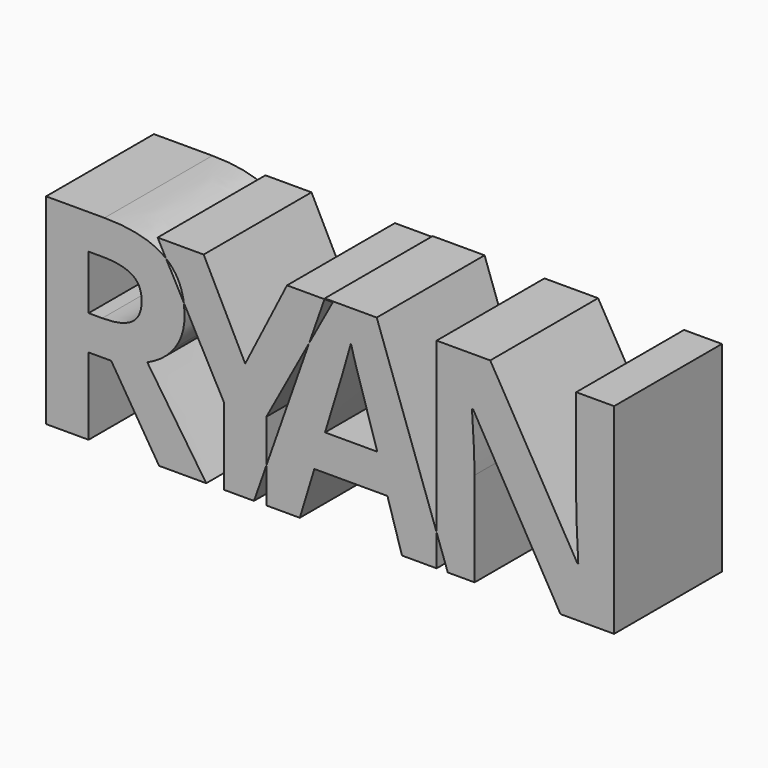
from build123d import *

# Parameters (mm, degrees)
F1_DEPTH = 20


with BuildPart() as f1:
    # F0 (on Front) → F1 (new body)
    with BuildSketch(Plane.XZ):
        with BuildLine():
            Line((-15.6930900564, 11.3737013649), (-15.6930900564, 3.4483e-06))
            Line((-15.6930900564, 3.4483e-06), (-11.2584561557, 3.4483e-06))
            Line((-11.2584561557, 3.4483e-06), (-9.430069223, 5.2006477426))
            Line((-9.430069223, 5.2006477426), (-9.430069223, 11.5755242816))
            Line((-9.430069223, 11.5755242816), (-3.0765425218, 23.2725513418))
            Line((-3.0765425218, 23.2725513418), (-0.8006424637, 29.7460971983))
            Line((-0.8006424637, 29.7460971983), (-6.3571525564, 29.7460971983))
            Line((-6.3571525564, 29.7460971983), (-12.5615796397, 17.5000034483))
            Line((-12.5615796397, 17.5000034483), (-18.726944223, 29.7460971983))
            Line((-18.726944223, 29.7460971983), (-25.562881723, 29.7460971983))
            Line((-25.562881723, 29.7460971983), (-24.3128126845, 27.4191217189))
            add(Edge.make_bspline(
                [(-24.3128126845, 27.4191217189), (-22.1109184832, 25.6535182111), (-21.6700217049, 22.4996255814)],
                knots=[0.0268003059, 0.0268003059, 0.0268003059, 0.8051311414, 0.8051311414, 0.8051311414], degree=2))
            Line((-21.6700217049, 22.4996255814), (-15.6930900564, 11.3737013649))
        make_face()
    extrude(amount=F1_DEPTH)


with BuildPart() as f1b:
    # F0 (on Front) → F1, piece 2 (new body)
    with BuildSketch(Plane.XZ):
        with BuildLine():
            Line((-42.1065104167, 29.7460971983), (-42.1065104167, 3.4483e-06))
            Line((-42.1065104167, 3.4483e-06), (-35.7979166667, 3.4483e-06))
            Line((-35.7979166667, 3.4483e-06), (-35.7979166667, 11.4127638649))
            Line((-35.7979166667, 11.4127638649), (-32.4450520833, 11.4127638649))
            Line((-32.4450520833, 11.4127638649), (-25.3421875, 3.4483e-06))
            Line((-25.3421875, 3.4483e-06), (-18.3434895833, 3.4483e-06))
            add(Edge.make_bspline(
                [(-27.0934895833, 12.9622430316), (-20.3747395833, 2.9296909483), (-18.3434895833, 3.4483e-06)],
                knots=[0, 0, 0, 1, 1, 1], degree=2))
            add(Edge.make_bspline(
                [(-23.0016927083, 16.1653680316), (-24.44375, 14.1210971983), (-27.0934895833, 12.9622430316)],
                knots=[0, 0, 0, 1, 1, 1], degree=2))
            add(Edge.make_bspline(
                [(-21.5596354167, 20.8333367816), (-21.5596354167, 18.2096388649), (-23.0016927083, 16.1653680316)],
                knots=[0, 0, 0, 1, 1, 1], degree=2))
            add(Edge.make_bspline(
                [(-21.6700217049, 22.4996255814), (-21.5596354167, 21.7099929099), (-21.5596354167, 20.8333367816)],
                knots=[0.8051311414, 0.8051311414, 0.8051311414, 1, 1, 1], degree=2))
            Line((-21.6700217049, 22.4996255814), (-24.3128126845, 27.4191217189))
            add(Edge.make_bspline(
                [(-24.4665364583, 27.5390659483), (-24.3886306213, 27.4799168357), (-24.3128126845, 27.4191217189)],
                knots=[0, 0, 0, 0.0268003059, 0.0268003059, 0.0268003059], degree=2))
            add(Edge.make_bspline(
                [(-33.4411458333, 29.7460971983), (-27.3734375, 29.7460971983), (-24.4665364583, 27.5390659483)],
                knots=[0, 0, 0, 1, 1, 1], degree=2))
            Line((-33.4411458333, 29.7460971983), (-42.1065104167, 29.7460971983))
        make_face()
        with BuildLine():
            Line((-33.7666666667, 16.5429721983), (-35.7979166667, 16.5429721983))
            Line((-35.7979166667, 16.5429721983), (-35.7979166667, 24.5768263649))
            Line((-35.7979166667, 24.5768263649), (-33.8838541667, 24.5768263649))
            add(Edge.make_bspline(
                [(-29.3819010417, 23.6816440733), (-30.8369791667, 24.5768263649), (-33.8838541667, 24.5768263649)],
                knots=[0, 0, 0, 1, 1, 1], degree=2))
            add(Edge.make_bspline(
                [(-27.9268229167, 20.6705763649), (-27.9268229167, 22.7864617816), (-29.3819010417, 23.6816440733)],
                knots=[0, 0, 0, 1, 1, 1], degree=2))
            add(Edge.make_bspline(
                [(-29.3493489583, 17.5390659483), (-27.9268229167, 18.5351596983), (-27.9268229167, 20.6705763649)],
                knots=[0, 0, 0, 1, 1, 1], degree=2))
            add(Edge.make_bspline(
                [(-33.7666666667, 16.5429721983), (-30.771875, 16.5429721983), (-29.3493489583, 17.5390659483)],
                knots=[0, 0, 0, 1, 1, 1], degree=2))
        make_face(mode=Mode.SUBTRACT)
    extrude(amount=F1_DEPTH)


with BuildPart() as f1c:
    # F0 (on Front) → F1, piece 3 (new body)
    with BuildSketch(Plane.XZ):
        Polygon((10.6946688443, 3.4483e-06), (15.8368554761, 3.4483e-06), (15.8368554761, 4.6891388612), (6.951179261, 29.8697951149), (-0.7571540723, 29.8697951149), (-0.8006424637, 29.7460971983), (0.4397224436, 29.7460971983), (-3.0765425218, 23.2725513418), (-9.430069223, 5.2006477426), (-9.430069223, 3.4483e-06), (-4.4615811557, 3.4483e-06), (-2.306633239, 7.0833367816), (8.5397209277, 7.0833367816), align=None)
        with BuildLine():
            add(Edge.make_bspline(
                [(7.029304261, 12.3697951149), (4.041023011, 21.9921909483), (3.6634188443, 23.2552117816)],
                knots=[0, 0, 0, 1, 1, 1], degree=2))
            Line((7.029304261, 12.3697951149), (-0.7180915723, 12.3697951149))
            add(Edge.make_bspline(
                [(3.123054261, 25.2473992816), (2.4524813443, 22.6432326149), (-0.7180915723, 12.3697951149)],
                knots=[0, 0, 0, 1, 1, 1], degree=2))
            add(Edge.make_bspline(
                [(3.6634188443, 23.2552117816), (3.2858146777, 24.5182326149), (3.123054261, 25.2473992816)],
                knots=[0, 0, 0, 1, 1, 1], degree=2))
        make_face(mode=Mode.SUBTRACT)
    extrude(amount=F1_DEPTH)


with BuildPart() as f1d:
    # F0 (on Front) → F1, piece 4 (new body)
    with BuildSketch(Plane.XZ):
        with BuildLine():
            Line((42.1667757928, 3.4483e-06), (42.1667757928, 29.7460971983))
            Line((42.1667757928, 29.7460971983), (36.5464908928, 29.7460971983))
            Line((36.5464908928, 29.7460971983), (36.5464908928, 15.6640659483))
            add(Edge.make_bspline(
                [(36.8524804761, 7.4674513649), (36.5464908928, 13.2682326149), (36.5464908928, 15.6640659483)],
                knots=[0, 0, 0, 1, 1, 1], degree=2))
            Line((36.8524804761, 7.4674513649), (36.7092513094, 7.4674513649))
            Line((36.7092513094, 7.4674513649), (23.7925846428, 29.7460971983))
            Line((23.7925846428, 29.7460971983), (15.8368554761, 29.7460971983))
            Line((15.8368554761, 29.7460971983), (15.8368554761, 4.6891388612))
            Line((15.8368554761, 4.6891388612), (17.4915438443, 3.4483e-06))
            Line((17.4915438443, 3.4483e-06), (21.4748763094, 3.4483e-06))
            Line((21.4748763094, 3.4483e-06), (21.4748763094, 13.9973992816))
            add(Edge.make_bspline(
                [(21.0842513094, 22.5000034483), (21.4748763094, 16.5429721983), (21.4748763094, 13.9973992816)],
                knots=[0, 0, 0, 1, 1, 1], degree=2))
            Line((21.0842513094, 22.5000034483), (21.2665429761, 22.5000034483))
            Line((21.2665429761, 22.5000034483), (34.2092513094, 3.4483e-06))
            Line((34.2092513094, 3.4483e-06), (42.1667757928, 3.4483e-06))
        make_face()
    extrude(amount=F1_DEPTH)


with BuildPart() as f1b_1:
    # F2: moved
    add(f1b.part.moved(Location((0, 10, 0))))


with BuildPart() as f1_1:
    # F2: moved
    add(f1.part.moved(Location((0, 10, 0))))


with BuildPart() as f1c_1:
    # F2: moved
    add(f1c.part.moved(Location((0, 10, 0))))


with BuildPart() as f1d_1:
    # F2: moved
    add(f1d.part.moved(Location((0, 10, 0))))


solid = Compound([f1b_1.part, f1_1.part, f1c_1.part, f1d_1.part])
